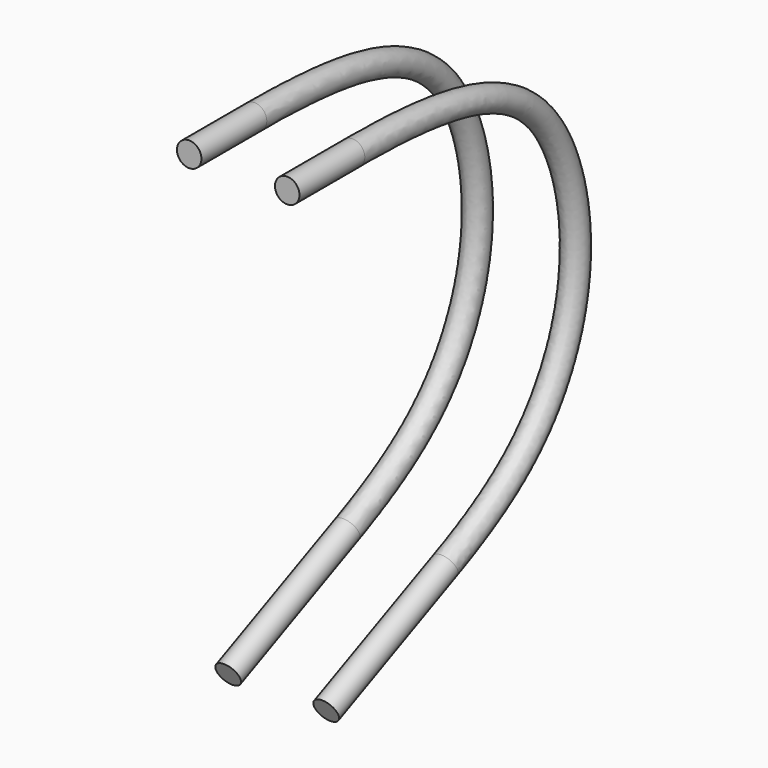
from build123d import *

# Parameters (mm, degrees)
F3_R = 1.5


with BuildPart() as f4:
    # F4: sweep along a path in F1
    with BuildLine(Plane.YZ.offset(6)) as f4_path:
        Line((0, 0), (18.2079007521, 8.2748021247))
        add(Plane.YZ.offset(6) * Edge.make_bspline(
            [(18.2079007521, 8.2748021247), (25.5303692235, 11.6025870512), (34.3140226829, 17.9101324611), (40.0267231676, 34.1904367583), (33.6517776748, 55.6240802607), (17.8018437886, 58.479), (4.032, 58.479)],
            knots=[0, 0, 0, 0, 0.2418207107, 0.462540692, 0.7007796735, 1, 1, 1, 1], degree=3))
        Line((4.032, 58.479), (-5.968, 58.479))
    # F3 (on line) → F4 (sweep)
    with BuildSketch(Plane(origin=(0, 0, 0), x_dir=(-1, 0, 0), z_dir=(0, 0.9103950376, 0.4137401062))):
        with Locations((-6, 0)):
            Circle(F3_R)
    sweep(path=f4_path.line)


with BuildPart() as f5_1:
    # F5: instance of F4
    add(f4.part.mirror(Plane.YZ))


solid = Compound([f4.part, f5_1.part])
